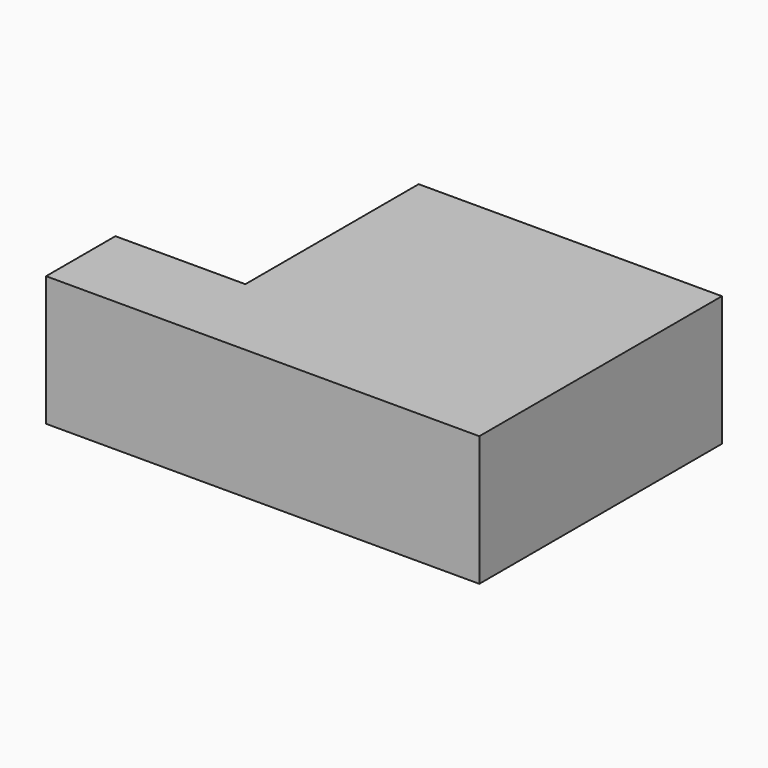
from build123d import *

# Parameters (mm, degrees)
PAD_DEPTH = 30


with BuildPart() as part:
    # Sketch → Pad (new body)
    with BuildSketch(Plane.XY):
        Polygon((0, 0), (100, 0), (100, 70), (30, 70), (30, 20), (0, 20), align=None)
    extrude(amount=PAD_DEPTH)


solid = part.part
